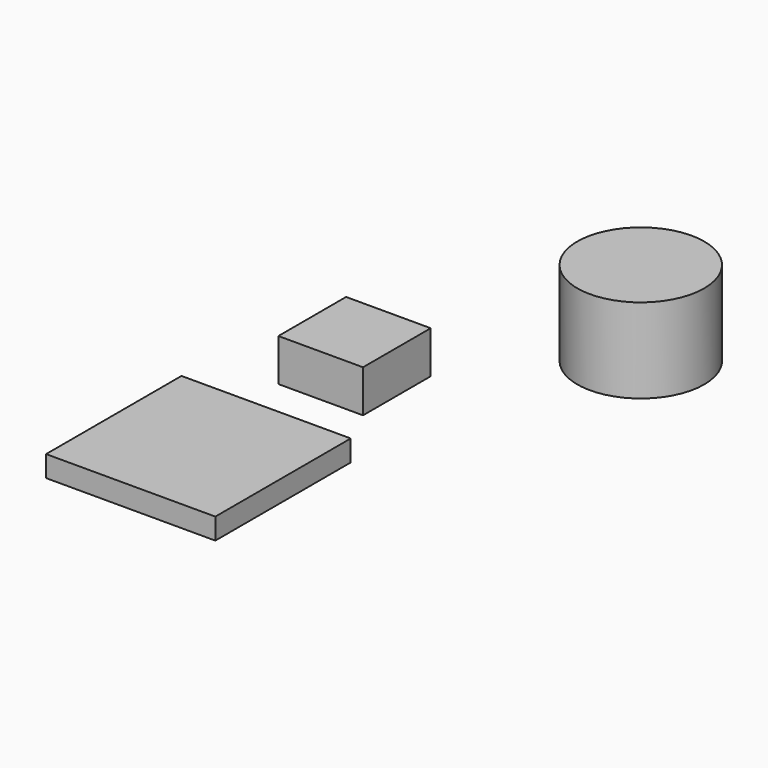
from build123d import *

# Parameters (mm, degrees)
F0_W     = 20
F0_H     = 20
F1_DEPTH = 10
F2_W     = 40
F2_H     = 40
F3_DEPTH = 5
F4_R     = 15
F5_DEPTH = 20


with BuildPart() as f1:
    # F0 (on Top) → F1 (new body)
    with BuildSketch(Plane.XY):
        Rectangle(F0_W, F0_H)
    extrude(amount=F1_DEPTH)


with BuildPart() as f3:
    # F2 (on Top) → F3 (new body)
    with BuildSketch(Plane.XY):
        with Locations((0, -46.124396)):
            Rectangle(F2_W, F2_H)
    extrude(amount=F3_DEPTH)


with BuildPart() as f5:
    # F4 (on Top) → F5 (new body)
    with BuildSketch(Plane.XY):
        with Locations((36.465608, 38.973559)):
            Circle(F4_R)
    extrude(amount=F5_DEPTH)


solid = Compound([f1.part, f3.part, f5.part])
